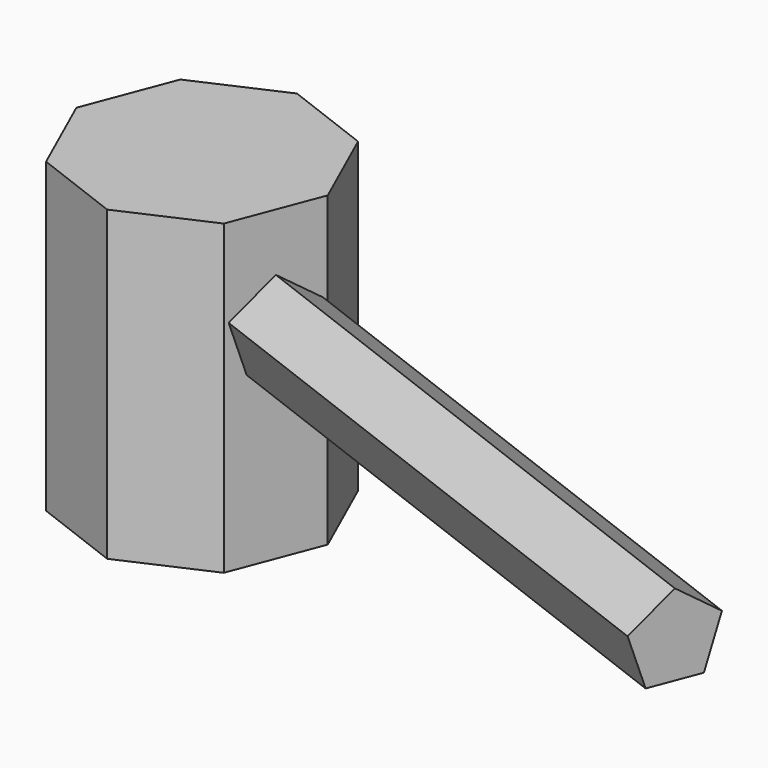
from build123d import *

# Parameters (mm, degrees)
F1_DEPTH = 12.7
F3_DEPTH = 25.4


with BuildPart() as f1:
    # F0 (on Top) → F1 (new body)
    with BuildSketch(Plane.XY):
        Polygon((-5.0780138401, -0.1420402769), (-3.4902603783, -3.6911356642), (0.1420402769, -5.0780138401), (3.6911356642, -3.4902603783), (5.0780138401, 0.1420402769), (3.4902603783, 3.6911356642), (-0.1420402769, 5.0780138401), (-3.6911356642, 3.4902603783), align=None)
    extrude(amount=F1_DEPTH)

    # F2 (on face) → F3 (join)
    with BuildSketch(Plane(origin=(4.3845747521, -1.6741100507, 0), x_dir=(0.3567015081, 0.9342184081, 0), z_dir=(0.9342184081, -0.3567015081, 0))):
        Polygon((-1.0900771857, 6.9677969441), (1.0900771857, 6.9677969441), (1.7637819369, 9.0412469656), (0, 10.3227095528), (-1.7637819369, 9.0412469656), align=None)
    extrude(amount=F3_DEPTH)


solid = f1.part
